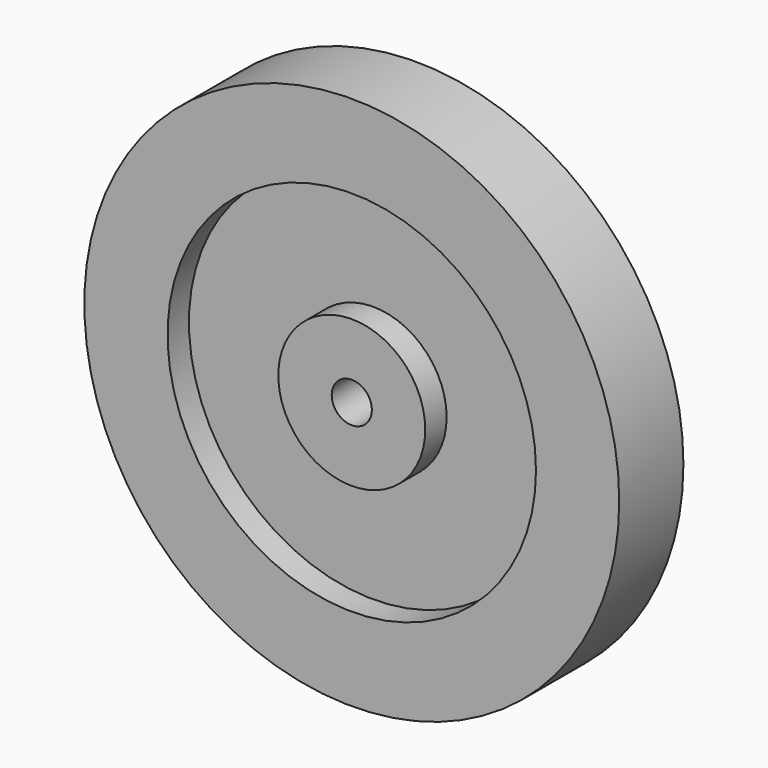
from build123d import *

# Parameters (mm, degrees)
F0_R     = 20
F1_DEPTH = 6
F2_R     = 13.774889
F2_R_2   = 5.493426
F3_DEPTH = 2
F4_D     = 3


with BuildPart() as f1:
    # F0 (on Front) → F1 (new body)
    with BuildSketch(Plane.XZ):
        Circle(F0_R)
    extrude(amount=F1_DEPTH)

    # F2 (on face) → F3 (cut)
    with BuildSketch(Plane.XZ.offset(6)):
        Circle(F2_R)
        Circle(F2_R_2, mode=Mode.SUBTRACT)
    extrude(amount=-F3_DEPTH, mode=Mode.SUBTRACT)

    # F4 (through all)
    with Locations(Plane.XZ.offset(6)):
        with Locations((0, 0)):
            Hole(F4_D / 2)


solid = f1.part
